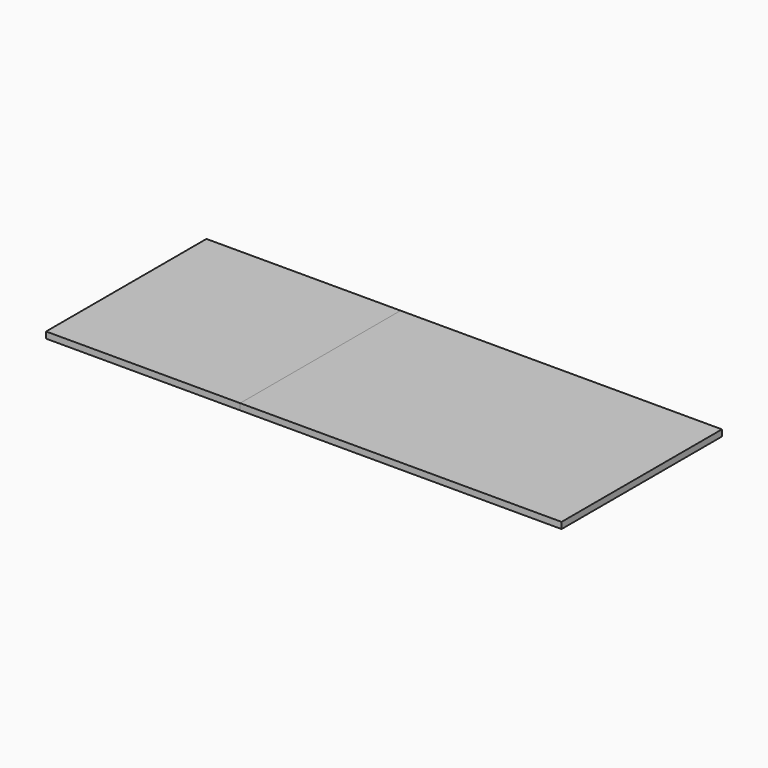
from build123d import *

# Parameters (mm, degrees)
F1_W     = 600
F1_H     = 19
F2_DEPTH = 762
F3_DEPTH = 581
F4_DEPTH = 962


with BuildPart() as f2:
    # F1 (on Right) → F2 (new body)
    with BuildSketch(Plane.YZ):
        with Locations((300, 9.5)):
            Rectangle(F1_W, F1_H)
    extrude(amount=F2_DEPTH)


with BuildPart() as f3:
    # F3 (new): a face of the model
    f3_faces = [f2.part.faces().sort_by_distance(p)[0] for p in [
        (0, 300, 9.5),
    ]]
    extrude(f3_faces, amount=F3_DEPTH)


with BuildPart() as f4:
    # F1 (on Right) → F4 (new body)
    with BuildSketch(Plane.YZ):
        with Locations((300, 9.5)):
            Rectangle(F1_W, F1_H)
    extrude(amount=F4_DEPTH)


solid = Compound([f2.part, f3.part, f4.part])
